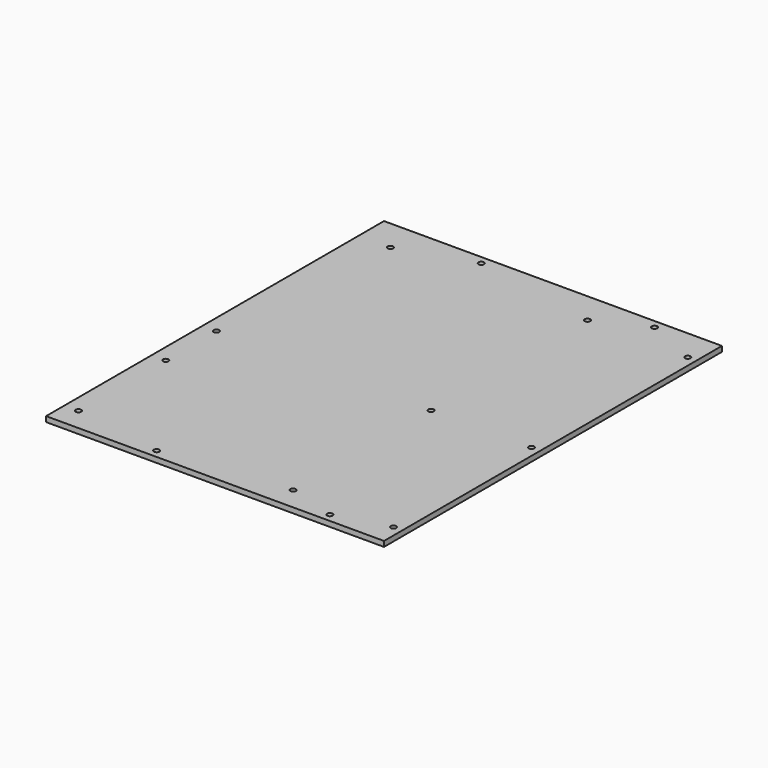
from build123d import *

# Parameters (mm, degrees)
F0_W     = 243.84
F0_H     = 304.8
F0_R     = 1.9812
F0_R_2   = 2
F1_DEPTH = 1.905


with BuildPart() as f1:
    # F0 (on Top) → F1 (new body, symmetric)
    with BuildSketch(Plane.XY):
        Rectangle(F0_W, F0_H)
        with Locations((-111.76, -135.89)):
            Circle(F0_R, mode=Mode.SUBTRACT)
        with Locations((-46.92, -146.4)):
            Circle(F0_R_2, mode=Mode.SUBTRACT)
        with Locations((-111.76, -57.15)):
            Circle(F0_R, mode=Mode.SUBTRACT)
        with Locations((-111.76, -11.43)):
            Circle(F0_R, mode=Mode.SUBTRACT)
        with Locations((43.18, -135.89)):
            Circle(F0_R, mode=Mode.SUBTRACT)
        with Locations((78.08, -146.4)):
            Circle(F0_R_2, mode=Mode.SUBTRACT)
        with Locations((115.57, -135.89)):
            Circle(F0_R, mode=Mode.SUBTRACT)
        with Locations((43.18, -11.43)):
            Circle(F0_R, mode=Mode.SUBTRACT)
        with Locations((115.57, -11.43)):
            Circle(F0_R, mode=Mode.SUBTRACT)
        with Locations((-99.06, 129.54)):
            Circle(F0_R, mode=Mode.SUBTRACT)
        with Locations((-46.92, 146.4)):
            Circle(F0_R_2, mode=Mode.SUBTRACT)
        with Locations((43.18, 129.54)):
            Circle(F0_R, mode=Mode.SUBTRACT)
        with Locations((78.08, 146.4)):
            Circle(F0_R_2, mode=Mode.SUBTRACT)
        with Locations((115.57, 129.54)):
            Circle(F0_R, mode=Mode.SUBTRACT)
    extrude(amount=F1_DEPTH, both=True)


solid = f1.part
